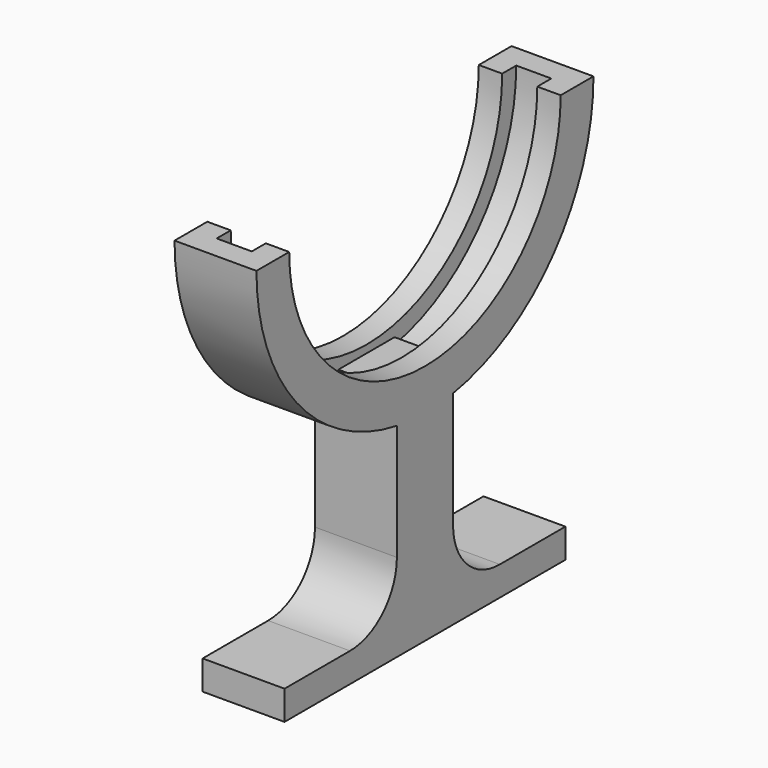
from build123d import *

# Parameters (mm, degrees)
F1_DEPTH = 3.5
F2_DEPTH = 1.5
F4_DEPTH = 3.5


with BuildPart() as f1:
    # F0 (on Right) → F1 (new body, symmetric)
    with BuildSketch(Plane.YZ):
        with BuildLine():
            ThreePointArc((-16, 0), (0, -16), (16, 0))
            Line((16, 0), (14.5, 0))
            ThreePointArc((14.5, 0), (0, -14.5), (-14.5, 0))
            Line((-14.5, 0), (-16, 0))
        make_face()
        with BuildLine():
            Line((18, 0), (16, 0))
            ThreePointArc((16, 0), (0, -16), (-16, 0))
            Line((-16, 0), (-18, 0))
            ThreePointArc((-18, 0), (0, -18), (18, 0))
        make_face()
    extrude(amount=F1_DEPTH, both=True)

    # F0 (on Right) → F2 (cut, symmetric)
    with BuildSketch(Plane.YZ):
        with BuildLine():
            ThreePointArc((-16, 0), (0, -16), (16, 0))
            Line((16, 0), (14.5, 0))
            ThreePointArc((14.5, 0), (0, -14.5), (-14.5, 0))
            Line((-14.5, 0), (-16, 0))
        make_face()
    extrude(amount=F2_DEPTH, both=True, mode=Mode.SUBTRACT)

    # F3 (on Right) → F4 (join, symmetric)
    with BuildSketch(Plane.YZ):
        Polygon((8, -32.6522623003), (-8, -32.6522623003), (-10, -32.6522623003), (-15, -32.6522623003), (-15, -35.1522623003), (-3, -35.1522623003), (3, -35.1522623003), (15, -35.1522623003), (15, -32.6522623003), (10, -32.6522623003), align=None)
        with BuildLine():
            Line((3, -15.1522623003), (-3, -15.1522623003))
            Line((-3, -15.1522623003), (-3, -27.6522623003))
            ThreePointArc((-3, -27.6522623003), (-4.4644660941, -31.1877962062), (-8, -32.6522623003))
            Line((-8, -32.6522623003), (8, -32.6522623003))
            ThreePointArc((8, -32.6522623003), (4.4644660941, -31.1877962062), (3, -27.6522623003))
            Line((3, -27.6522623003), (3, -15.1522623003))
        make_face()
    extrude(amount=F4_DEPTH, both=True)


solid = f1.part
